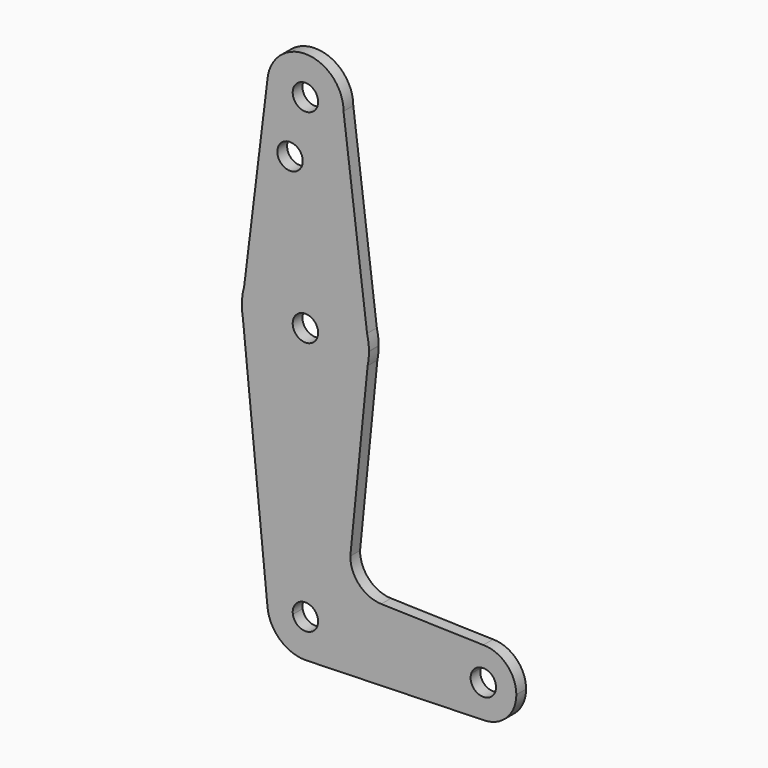
from build123d import *

# Parameters (mm, degrees)
F0_R     = 3.175
F1_DEPTH = 3.048


with BuildPart() as f1:
    # F0 (on Front) → F1 (new body)
    with BuildSketch(Plane.XZ):
        with BuildLine():
            ThreePointArc((-9.4940138643, 56.1788427346), (-0.3841503236, 45.8939168752), (9.525, 55.4111671886))
            ThreePointArc((9.525, 55.4111671886), (0.3841503236, 64.9284175021), (-9.4940138643, 56.1788427346))
        make_face()
        with Locations((0, 55.4111671886)):
            Circle(F0_R, mode=Mode.SUBTRACT)
        with BuildLine():
            Line((15.4070405438, 8.4372260856), (9.525, 55.4111671886))
            ThreePointArc((9.525, 55.4111671886), (-0.3841503236, 45.8939168752), (-9.4940138643, 56.1788427346))
            Line((-9.4940138643, 56.1788427346), (-15.3003641659, 8.8437174116))
            ThreePointArc((-15.3003641659, 8.8437174116), (0.2101279656, 20.4847764581), (15.4070405438, 8.4372260856))
        make_face()
        with Locations((-3.8412530434, 41.1363671886)):
            Circle(F0_R, mode=Mode.SUBTRACT)
        with BuildLine():
            Line((15.8747390567, 4.7021885189), (15.4070405438, 8.4372260856))
            ThreePointArc((15.4070405438, 8.4372260856), (0.2101279656, 20.4847764581), (-15.3003641659, 8.8437174116))
            Line((-15.3003641659, 8.8437174116), (-15.8697283891, 4.2020879098))
            Line((-15.8697283891, 4.2020879098), (-15.6372909935, 1.8742427499))
            ThreePointArc((-15.6372909935, 1.8742427499), (-0.2500923651, -11.2618627303), (15.5433056582, 1.3829673474))
            Line((15.5433056582, 1.3829673474), (15.8747390567, 4.7021885189))
        make_face()
        with Locations((0, 4.6111671886)):
            Circle(F0_R, mode=Mode.SUBTRACT)
        with BuildLine():
            ThreePointArc((15.8747390567, 4.7021885189), (15.7519859113, 6.5836186713), (15.4070405438, 8.4372260856))
            Line((15.4070405438, 8.4372260856), (15.8747390567, 4.7021885189))
        make_face()
        with BuildLine():
            Line((-15.8697283891, 4.2020879098), (-15.3003641659, 8.8437174116))
            ThreePointArc((-15.3003641659, 8.8437174116), (-15.7568984442, 6.5439828601), (-15.8697283891, 4.2020879098))
        make_face()
        with BuildLine():
            ThreePointArc((15.875, 4.6111671886), (15.874934764, 4.6566780408), (15.8747390567, 4.7021885189))
            Line((15.8747390567, 4.7021885189), (15.5433056582, 1.3829673474))
            ThreePointArc((15.5433056582, 1.3829673474), (15.7918586988, 2.9885693217), (15.875, 4.6111671886))
        make_face()
        with BuildLine():
            Line((-15.6372909935, 1.8742427499), (-15.8697283891, 4.2020879098))
            ThreePointArc((-15.8697283891, 4.2020879098), (-15.7964484416, 3.0338778577), (-15.6372909935, 1.8742427499))
        make_face()
        with BuildLine():
            Line((11.2210564538, -41.9032588901), (15.5433056582, 1.3829673474))
            ThreePointArc((15.5433056582, 1.3829673474), (-0.2500923651, -11.2618627303), (-15.6372909935, 1.8742427499))
            Line((-15.6372909935, 1.8742427499), (-9.4964103767, -59.6262709157))
            ThreePointArc((-9.4964103767, -59.6262709157), (-0.3689960448, -49.3709829008), (9.525, -58.8888328114))
            ThreePointArc((9.525, -58.8888328114), (6.924307622, -65.4294435593), (0.5424091432, -68.3983762978))
            Line((0.5424091432, -68.3983762978), (44.6851393734, -67.1404832205))
            ThreePointArc((44.6851393734, -67.1404832205), (36.1958374402, -59.0064144263), (44.45, -50.6338328114))
            Line((44.45, -50.6338328114), (18.9433276888, -49.9028265406))
            ThreePointArc((18.9433276888, -49.9028265406), (13.4511789673, -47.477518503), (11.2210564538, -41.9032588901))
        make_face()
        with BuildLine():
            Line((-3.1368228607, -59.3797170551), (-9.4964103767, -59.6262709157))
            ThreePointArc((-9.4964103767, -59.6262709157), (-6.4692166085, -65.8798886309), (0, -68.4138328114))
            Line((0, -68.4138328114), (0.5424091432, -68.3983762978))
            ThreePointArc((0.5424091432, -68.3983762978), (6.924307622, -65.4294435593), (9.525, -58.8888328114))
            Line((9.525, -58.8888328114), (3.165412484, -59.1353866719))
            ThreePointArc((3.165412484, -59.1353866719), (0.1229986816, -62.0614494482), (-3.1368228607, -59.3797170551))
        make_face()
        with BuildLine():
            ThreePointArc((9.525, -58.8888328114), (-0.3689960448, -49.3709829008), (-9.4964103767, -59.6262709157))
            Line((-9.4964103767, -59.6262709157), (-3.1368228607, -59.3797170551))
            ThreePointArc((-3.1368228607, -59.3797170551), (-0.2461832827, -55.7233914849), (3.175, -58.8888328114))
            ThreePointArc((3.175, -58.8888328114), (3.1726022156, -59.0122029117), (3.165412484, -59.1353866719))
            Line((3.165412484, -59.1353866719), (9.525, -58.8888328114))
        make_face()
        with BuildLine():
            Line((0.5424091432, -68.3983762978), (0, -68.4138328114))
            ThreePointArc((0, -68.4138328114), (0.2713146616, -68.4099678989), (0.5424091432, -68.3983762978))
        make_face()
        with BuildLine():
            ThreePointArc((52.705, -58.8888328114), (50.2871664787, -53.0516663327), (44.45, -50.6338328114))
            ThreePointArc((44.45, -50.6338328114), (36.1958374402, -59.0064144263), (44.6851393734, -67.1404832205))
            ThreePointArc((44.6851393734, -67.1404832205), (50.3697170763, -64.6422643732), (52.705, -58.8888328114))
        make_face()
        with BuildLine():
            ThreePointArc((41.4235765293, -57.9289442887), (44.935659593, -55.7511967968), (47.625, -58.8888328114))
            ThreePointArc((47.625, -58.8888328114), (43.964340407, -62.0264688259), (41.4235765293, -57.9289442887))
        make_face(mode=Mode.SUBTRACT)
    extrude(amount=F1_DEPTH)


solid = f1.part
